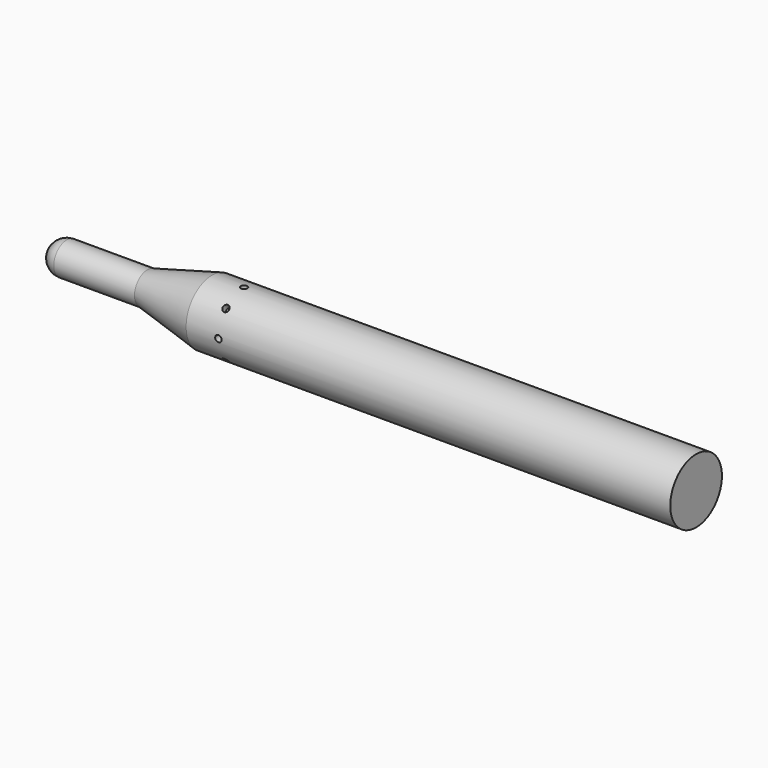
from build123d import *

# Parameters (mm, degrees)
SKETCH003_R        = 50
POCKET_DEPTH       = 100
POLARPATTERN_COUNT = 8


with BuildPart() as part:
    # Sketch → Revolution (revolve)
    with BuildSketch(Plane.XY):
        Polygon((-2500, 500), (5000, 500), (5000, 0), (-5000, 0), (-5000, 250), (-2500, 250), align=None)
    revolve(axis=Axis((0, 0, 0), (1, 0, 0)))

    # Sketch001 → Revolution001 (revolve)
    with BuildSketch(Plane.XY):
        Polygon((-2500, 500), (-3500, 250), (-2500, 250), align=None)
    revolve(axis=Axis((0, 0, 0), (1, 0, 0)))

    # Sketch002 → Groove (revolve, cut)
    with BuildSketch(Plane.XY):
        with BuildLine():
            ThreePointArc((-4749.99978, 250), (-4926.776618, 176.776773), (-5000, 0))
            Line((-5000, 0), (-5249.99978, 0))
            Line((-5249.99978, 0), (-5249.99978, 500))
            Line((-5249.99978, 500), (-4749.99978, 500))
            Line((-4749.99978, 500), (-4749.99978, 250))
        make_face()
    revolve(axis=Axis((0, 0, 0), (1, 0, 0)), mode=Mode.SUBTRACT)

    # Sketch003 (on DatumPlane) → Pocket (cut)
    with BuildSketch(Plane.XZ.offset(500)):
        with Locations((-2000, 0)):
            Circle(SKETCH003_R)
    pocket = extrude(amount=-POCKET_DEPTH, mode=Mode.SUBTRACT)

    # PolarPattern: Pocket ×8 about axis
    polarpattern_axis = Axis((0, 0, 0), (1, 0, 0))
    for i in range(1, POLARPATTERN_COUNT):
        add(pocket.rotate(polarpattern_axis, i * 360 / POLARPATTERN_COUNT), mode=Mode.SUBTRACT)


solid = part.part
